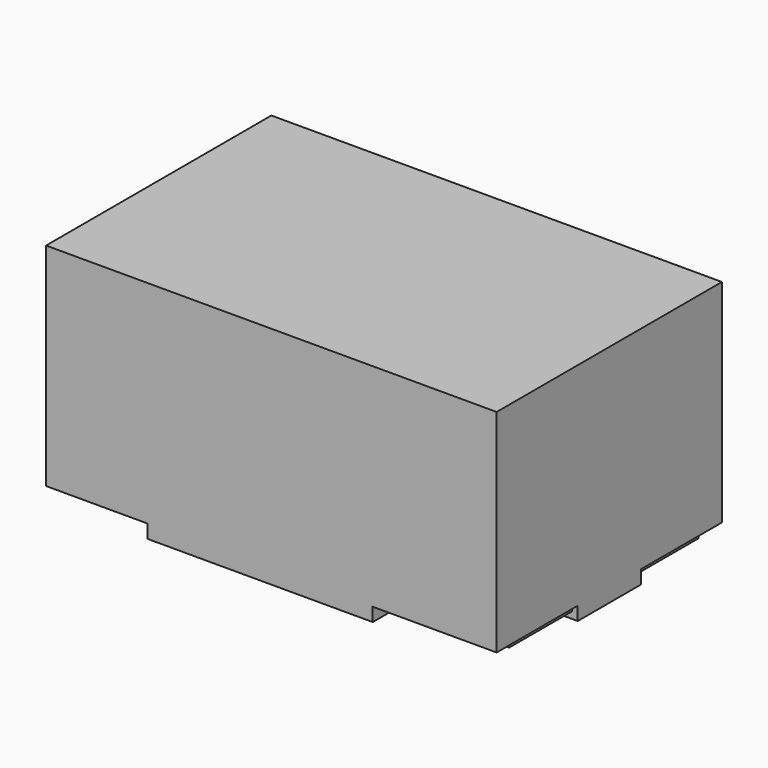
from build123d import *

# Parameters (mm, degrees)
SKETCH_W      = 2
SKETCH_H      = 1.25
PAD_DEPTH     = 0.56
PAD_FACE6_W   = 1.25
PAD_FACE6_H   = 2
PAD001_DEPTH  = 0.44
SKETCH002_W   = 0.45
SKETCH002_H   = 0.45
SKETCH002_W_2 = 0.55
POCKET_DEPTH  = 0.06
PAD002_START  = 0.03
SKETCH003_W   = 0.425
SKETCH003_H   = 0.35
SKETCH003_W_2 = 0.525
PAD002_DEPTH  = 0.03


with BuildPart() as part:
    # Sketch → Pad (new body)
    with BuildSketch(Plane.XY):
        Rectangle(SKETCH_W, SKETCH_H)
    extrude(amount=PAD_DEPTH)

    # Pad Face6 → Pad001 (add)
    with BuildSketch(Plane(origin=(0, 0, 0.56), x_dir=(0, 1, 0), z_dir=(0, 0, 1))):
        Rectangle(PAD_FACE6_W, PAD_FACE6_H)
    extrude(amount=PAD001_DEPTH)

    # Sketch002 → Pocket (cut)
    with BuildSketch(Plane.XY):
        with Locations((-0.775, 0.4)):
            Rectangle(SKETCH002_W, SKETCH002_H)
        with Locations((0.775, 0.4)):
            Rectangle(SKETCH002_W, SKETCH002_H)
        with Locations((0.725, -0.4)):
            Rectangle(SKETCH002_W_2, SKETCH002_H)
        with Locations((-0.775, -0.4)):
            Rectangle(SKETCH002_W, SKETCH002_H)
    extrude(amount=POCKET_DEPTH, mode=Mode.SUBTRACT)

    # Sketch003 → Pad002 (join)
    with BuildSketch(Plane.XY.offset(PAD002_START)):
        with Locations((-0.7625, 0.35)):
            Rectangle(SKETCH003_W, SKETCH003_H)
        with Locations((-0.7625, -0.35)):
            Rectangle(SKETCH003_W, SKETCH003_H)
        with Locations((0.7125, -0.35)):
            Rectangle(SKETCH003_W_2, SKETCH003_H)
        with Locations((0.7625, 0.35)):
            Rectangle(SKETCH003_W, SKETCH003_H)
    extrude(amount=PAD002_DEPTH)


solid = part.part
